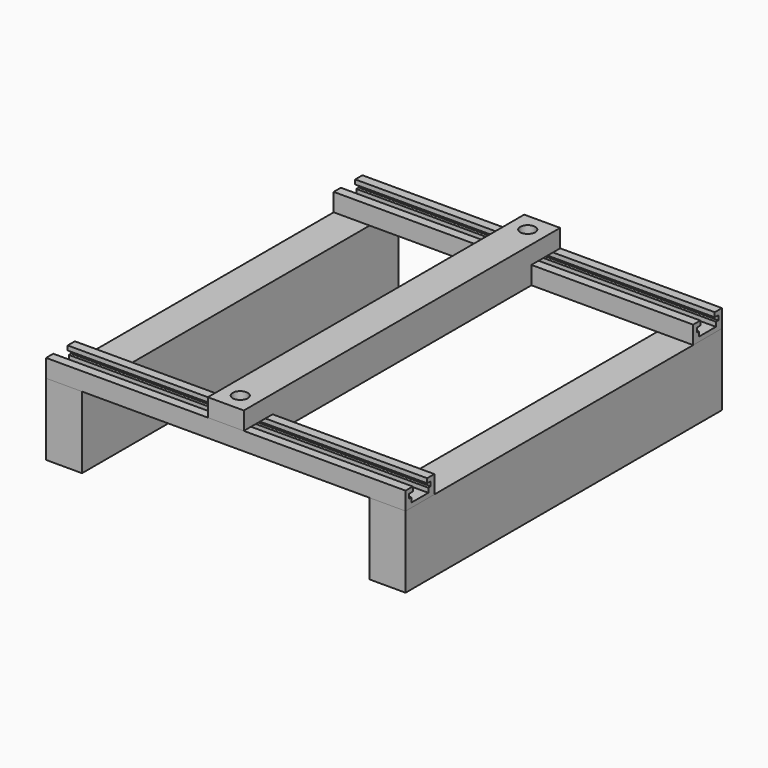
from build123d import *

# Parameters (mm, degrees)
F3_DEPTH = 95.25
F1_W     = 19.05
F1_H     = 209.55
F4_DEPTH = 38.1
F5_DEPTH = 9.525
F7_D     = 7.9375


with BuildPart() as f3:
    # F0 (on Right) → F3 (new body, symmetric)
    with BuildSketch(Plane.YZ):
        Polygon((-100.0125, 7.14375), (-100.0125, 9.525), (-104.775, 9.525), (-104.775, 0), (-85.725, 0), (-85.725, 9.525), (-90.4875, 9.525), (-90.4875, 7.14375), (-88.10625, 7.14375), (-88.10625, 4.7625), (-89.69375, 4.7625), (-89.69375, 2.38125), (-100.80625, 2.38125), (-100.80625, 4.7625), (-102.39375, 4.7625), (-102.39375, 7.14375), align=None)
    extrude(amount=F3_DEPTH, both=True)


with BuildPart() as f3b:
    # F0 (on Right) → F3, piece 2 (new body, symmetric)
    with BuildSketch(Plane.YZ):
        Polygon((90.4875, 7.14375), (90.4875, 9.525), (85.725, 9.525), (85.725, 0), (104.775, 0), (104.775, 9.525), (100.0125, 9.525), (100.0125, 7.14375), (102.39375, 7.14375), (102.39375, 4.7625), (100.80625, 4.7625), (100.80625, 2.38125), (89.69375, 2.38125), (89.69375, 4.7625), (88.10625, 4.7625), (88.10625, 7.14375), align=None)
    extrude(amount=F3_DEPTH, both=True)


with BuildPart() as f4:
    # F1 (on face) → F4 (new body)
    with BuildSketch(Plane(origin=(0, 0, 0), x_dir=(1, 0, 0), z_dir=(0, 0, -1))):
        with Locations((-85.725, 0)):
            Rectangle(F1_W, F1_H)
    extrude(amount=F4_DEPTH)


with BuildPart() as f4b:
    # F1 (on face) → F4, piece 2 (new body)
    with BuildSketch(Plane(origin=(0, 0, 0), x_dir=(1, 0, 0), z_dir=(0, 0, -1))):
        with Locations((85.725, 0)):
            Rectangle(F1_W, F1_H)
    extrude(amount=F4_DEPTH)


with BuildPart() as f5:
    # F2 (on Right) → F5 (new body, symmetric)
    with BuildSketch(Plane.YZ):
        Polygon((-104.775, 19.05), (-104.775, 9.525), (-85.725, 9.525), (-85.725, 0), (85.725, 0), (85.725, 9.525), (104.775, 9.525), (104.775, 19.05), align=None)
    extrude(amount=F5_DEPTH, both=True)

    # F7 (through all)
    with Locations(Plane.XY.offset(19.05)):
        with Locations((0, -95.25), (0, 95.25)):
            Hole(F7_D / 2)


solid = Compound([f3.part, f3b.part, f4.part, f4b.part, f5.part])
